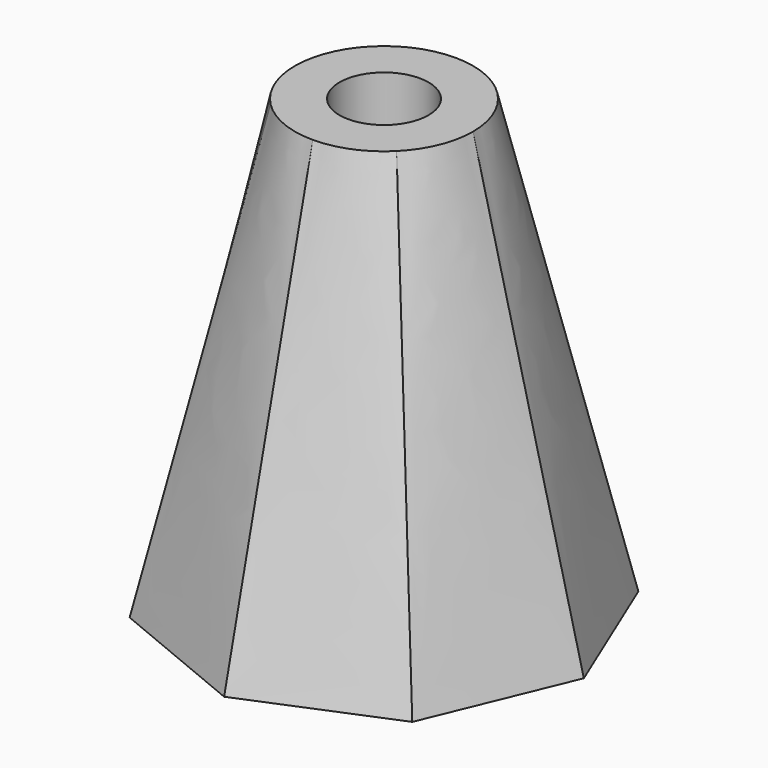
from build123d import *

# Parameters (mm, degrees)
F2_R     = 30
F4_R     = 15
F5_DEPTH = 226.1


with BuildPart() as f3:
    # F0 (on Top) → F3 section 0
    with BuildSketch(Plane.XY):
        Polygon((-47.612937, 47.612937), (-67.334861, 0), (-47.612937, -47.612937), (0, -67.334861), (47.612937, -47.612937), (67.334861, 0), (47.612937, 47.612937), (0, 67.334861), align=None)
    # F2 (on offset) → F3 section 1
    with BuildSketch(Plane.XY.offset(150)):
        Circle(F2_R)
    loft()

    # F4 (on offset) → F5 (cut)
    with BuildSketch(Plane.XY.offset(150)):
        Circle(F4_R)
    extrude(amount=-F5_DEPTH, mode=Mode.SUBTRACT)


solid = f3.part
